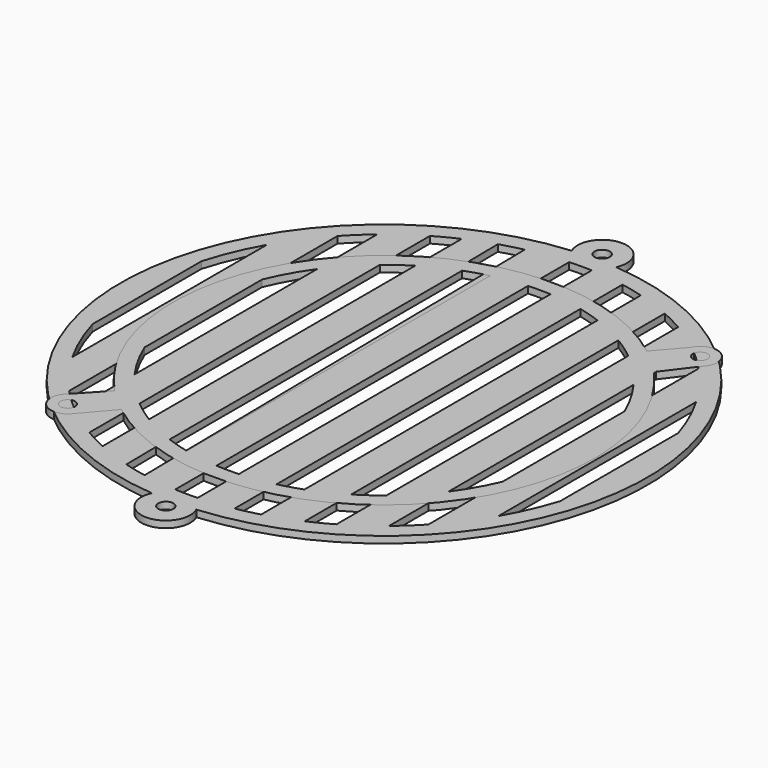
from build123d import *

# Parameters (mm, degrees)
F2_R     = 2.25
F3_DEPTH = 2
F4_R     = 2.15
F5_DEPTH = 2


with BuildPart() as f3:
    # F2 (on Top) → F3 (new body)
    with BuildSketch(Plane.XY):
        with BuildLine():
            ThreePointArc((88.912903, 100.714455), (95.5, 90.435818), (102.087097, 100.714455))
            ThreePointArc((102.087097, 100.714455), (173.5, 178.435818), (102.087097, 256.15718))
            ThreePointArc((102.087097, 256.15718), (95.5, 266.435818), (88.912903, 256.15718))
            ThreePointArc((88.912903, 256.15718), (17.5, 178.435818), (88.912903, 100.714455))
        make_face()
        with Locations((95.5, 97.685818)):
            Circle(F2_R, mode=Mode.SUBTRACT)
        with BuildLine():
            ThreePointArc((48.66664, 122.439064), (45.233552, 125.499212), (41.99997, 128.769463))
            Line((41.99997, 128.769463), (41.99997, 228.102172))
            ThreePointArc((41.99997, 228.102172), (45.233552, 231.372423), (48.66664, 234.432571))
            Line((48.66664, 234.432571), (48.66664, 122.439064))
        make_face(mode=Mode.SUBTRACT)
        with BuildLine():
            ThreePointArc((73.50733, 248.044168), (76.775145, 248.993452), (80.083648, 249.789416))
            Line((80.083648, 249.789416), (81.546021, 140.592554))
            Line((81.546021, 140.592554), (81.99998, 106.694968))
            ThreePointArc((81.99998, 106.694968), (78.648077, 107.407565), (75.33331, 108.27668))
            Line((75.33331, 108.27668), (74.871582, 143.61913))
            Line((74.871582, 143.61913), (73.50733, 248.044168))
        make_face(mode=Mode.SUBTRACT)
        with BuildLine():
            ThreePointArc((31.99997, 142.425455), (28.19723, 150.163267), (25.3333, 158.295455))
            Line((25.3333, 158.295455), (25.3333, 198.57618))
            ThreePointArc((25.3333, 198.57618), (28.19723, 206.708368), (31.99997, 214.44618))
            Line((31.99997, 214.44618), (31.99997, 142.425455))
        make_face(mode=Mode.SUBTRACT)
        with BuildLine():
            ThreePointArc((65.33331, 111.960478), (61.955615, 113.599298), (58.66664, 115.409604))
            Line((58.66664, 115.409604), (58.66664, 194.034009))
            Line((58.66664, 194.034009), (58.66664, 241.462031))
            ThreePointArc((58.66664, 241.462031), (61.955615, 243.272337), (65.33331, 244.911157))
            Line((65.33331, 244.911157), (65.33331, 204.703113))
            Line((65.33331, 204.703113), (65.33331, 111.960478))
        make_face(mode=Mode.SUBTRACT)
        with BuildLine():
            ThreePointArc((98.66665, 105.504533), (95.333141, 105.436008), (91.99998, 105.519771))
            Line((91.99998, 105.519771), (91.99998, 138.589238))
            Line((91.99998, 138.589238), (91.99998, 251.351864))
            ThreePointArc((91.99998, 251.351864), (95.333141, 251.435627), (98.66665, 251.367102))
            Line((98.66665, 251.367102), (98.66665, 138.56136))
            Line((98.66665, 138.56136), (98.66665, 105.504533))
        make_face(mode=Mode.SUBTRACT)
        with Locations((95.5, 259.185818)):
            Circle(F2_R, mode=Mode.SUBTRACT)
        with BuildLine():
            ThreePointArc((115.33332, 108.181711), (112.018145, 107.329201), (108.66665, 106.633037))
            Line((108.66665, 106.633037), (108.66665, 140.664938))
            Line((108.66665, 140.664938), (108.66665, 250.238598))
            ThreePointArc((108.66665, 250.238598), (112.018145, 249.542434), (115.33332, 248.689924))
            Line((115.33332, 248.689924), (115.33332, 143.699102))
            Line((115.33332, 143.699102), (115.33332, 108.181711))
        make_face(mode=Mode.SUBTRACT)
        with BuildLine():
            ThreePointArc((131.99999, 115.215957), (128.710342, 113.427563), (125.33332, 111.810199))
            Line((125.33332, 111.810199), (125.33332, 151.790499))
            Line((125.33332, 151.790499), (125.33332, 245.061436))
            ThreePointArc((125.33332, 245.061436), (128.710342, 243.444072), (131.99999, 241.655678))
            Line((131.99999, 241.655678), (131.99999, 162.072727))
            Line((131.99999, 162.072727), (131.99999, 115.215957))
        make_face(mode=Mode.SUBTRACT)
        with BuildLine():
            ThreePointArc((148.66666, 128.41276), (145.431238, 125.182916), (141.99999, 122.161925))
            Line((141.99999, 122.161925), (141.99999, 234.70971))
            ThreePointArc((141.99999, 234.70971), (145.431238, 231.688719), (148.66666, 228.458875))
            Line((148.66666, 228.458875), (148.66666, 128.41276))
        make_face(mode=Mode.SUBTRACT)
        with BuildLine():
            ThreePointArc((165.156669, 156.596667), (162.320062, 149.040591), (158.66666, 141.843837))
            Line((158.66666, 141.843837), (158.66666, 215.027798))
            ThreePointArc((158.66666, 215.027798), (162.320062, 207.831044), (165.156669, 200.274968))
            Line((165.156669, 200.274968), (165.156669, 156.596667))
        make_face(mode=Mode.SUBTRACT)
    extrude(amount=F3_DEPTH)


with BuildPart() as f5:
    # F4 (on Top) → F5 (new body)
    with BuildSketch(Plane.XY):
        with BuildLine():
            Line((49.886084, 120.503883), (57.227956, 129.024274))
            ThreePointArc((57.227956, 129.024274), (141.451654, 136.071971), (141.644244, 220.589806))
            ThreePointArc((141.644244, 220.589806), (137.907377, 224.347302), (133.865632, 227.77473))
            ThreePointArc((133.865632, 227.77473), (49.175219, 220.391325), (50.190611, 135.385738))
            Line((50.190611, 135.385738), (42.392399, 127.061022))
            ThreePointArc((42.392399, 127.061022), (42.543359, 119.672975), (49.886084, 120.503883))
        make_face()
        with Locations((45.835928, 123.435818)):
            Circle(F4_R, mode=Mode.SUBTRACT)
        with BuildLine():
            Line((48.66664, 212.224853), (48.66664, 144.646782))
            ThreePointArc((48.66664, 144.646782), (44.973107, 150.469846), (41.99997, 156.691639))
            Line((41.99997, 156.691639), (41.99997, 200.179996))
            ThreePointArc((41.99997, 200.179996), (44.973107, 206.401789), (48.66664, 212.224853))
        make_face(mode=Mode.SUBTRACT)
        with BuildLine():
            Line((65.33331, 227.680445), (65.33331, 129.19119))
            ThreePointArc((65.33331, 129.19119), (61.915333, 131.455688), (58.66664, 133.95699))
            Line((58.66664, 133.95699), (58.66664, 222.914645))
            ThreePointArc((58.66664, 222.914645), (61.915333, 225.415947), (65.33331, 227.680445))
        make_face(mode=Mode.SUBTRACT)
        with BuildLine():
            Line((81.99998, 234.585724), (81.99998, 122.285911))
            ThreePointArc((81.99998, 122.285911), (78.635906, 123.202994), (75.33331, 124.321428))
            Line((75.33331, 124.321428), (75.33331, 232.550207))
            ThreePointArc((75.33331, 232.550207), (78.635906, 233.668641), (81.99998, 234.585724))
        make_face(mode=Mode.SUBTRACT)
        with BuildLine():
            Line((98.66665, 236.098932), (98.66665, 120.772703))
            ThreePointArc((98.66665, 120.772703), (95.333037, 120.686059), (91.99998, 120.791977))
            Line((91.99998, 120.791977), (91.99998, 236.079658))
            ThreePointArc((91.99998, 236.079658), (95.333037, 236.185576), (98.66665, 236.098932))
        make_face(mode=Mode.SUBTRACT)
        with BuildLine():
            Line((108.66665, 122.206805), (108.66665, 234.66483))
            ThreePointArc((108.66665, 234.66483), (112.030005, 233.769545), (115.33332, 232.673276))
            Line((115.33332, 232.673276), (115.33332, 124.198359))
            ThreePointArc((115.33332, 124.198359), (112.030005, 123.10209), (108.66665, 122.206805))
        make_face(mode=Mode.SUBTRACT)
        with BuildLine():
            Line((125.33332, 128.988517), (125.33332, 227.883118))
            ThreePointArc((125.33332, 227.883118), (128.74961, 225.653673), (131.99999, 223.188619))
            Line((131.99999, 223.188619), (131.99999, 133.683016))
            ThreePointArc((131.99999, 133.683016), (128.74961, 131.217962), (125.33332, 128.988517))
        make_face(mode=Mode.SUBTRACT)
        with BuildLine():
            Line((148.66666, 200.982852), (148.66666, 155.888783))
            ThreePointArc((148.66666, 155.888783), (145.675481, 149.844147), (141.99999, 144.189454))
            Line((141.99999, 144.189454), (141.99999, 212.682181))
            ThreePointArc((141.99999, 212.682181), (145.675481, 207.027488), (148.66666, 200.982852))
        make_face(mode=Mode.SUBTRACT)
        with BuildLine():
            ThreePointArc((133.865632, 227.77473), (137.907377, 224.347302), (141.644244, 220.589806))
            Line((141.644244, 220.589806), (148.658463, 229.859615))
            Line((148.658463, 229.859615), (148.66666, 229.870447))
            Line((148.66666, 229.870447), (149.555458, 231.04506))
            ThreePointArc((149.555458, 231.04506), (147.457108, 237.879013), (140.671242, 235.630011))
            Line((140.671242, 235.630011), (133.865632, 227.77473))
        make_face()
        with Locations((145.164072, 233.435818)):
            Circle(F4_R, mode=Mode.SUBTRACT)
        with BuildLine():
            Line((148.66666, 229.870447), (148.658463, 229.859615))
            ThreePointArc((148.658463, 229.859615), (148.662564, 229.863626), (148.66666, 229.867642))
            Line((148.66666, 229.867642), (148.66666, 229.870447))
        make_face()
        with BuildLine():
            Line((148.66666, 229.870447), (148.66666, 229.867642))
            ThreePointArc((148.66666, 229.867642), (149.154722, 230.423392), (149.555458, 231.04506))
            Line((149.555458, 231.04506), (148.66666, 229.870447))
        make_face()
    extrude(amount=F5_DEPTH)


solid = Compound([f3.part, f5.part])
